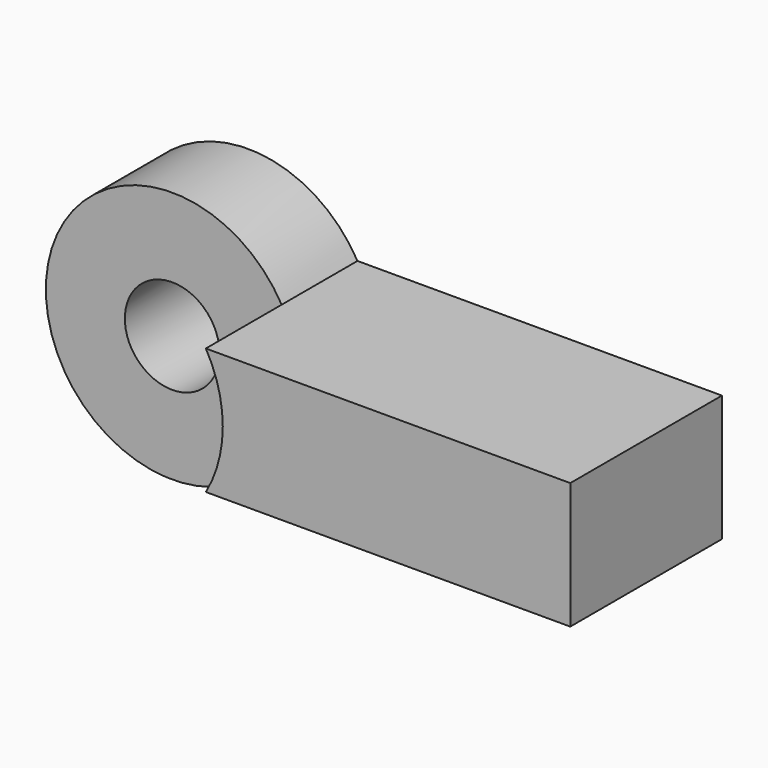
from build123d import *

# Parameters (mm, degrees)
F0_R     = 7.5
F1_DEPTH = 15
F2_DEPTH = 30


with BuildPart() as f1:
    # F0 (on Front) → F1 (new body)
    with BuildSketch(Plane.XZ):
        with BuildLine():
            ThreePointArc((-2.679492, -10), (-0.681483, -5.176381), (0, 0))
            ThreePointArc((0, 0), (-0.681483, 5.176381), (-2.679492, 10))
            ThreePointArc((-2.679492, 10), (-40, 0), (-2.679492, -10))
        make_face()
        with Locations((-20, 0)):
            Circle(F0_R, mode=Mode.SUBTRACT)
    extrude(amount=F1_DEPTH)

    # F0 (on Front) → F2 (join)
    with BuildSketch(Plane.XZ):
        with BuildLine():
            ThreePointArc((-2.679492, 10), (-0.681483, 5.176381), (0, 0))
            ThreePointArc((0, 0), (-0.681483, -5.176381), (-2.679492, -10))
            Line((-2.679492, -10), (55, -10))
            Line((55, -10), (55, 10))
            Line((55, 10), (-2.679492, 10))
        make_face()
    extrude(amount=F2_DEPTH)


solid = f1.part
